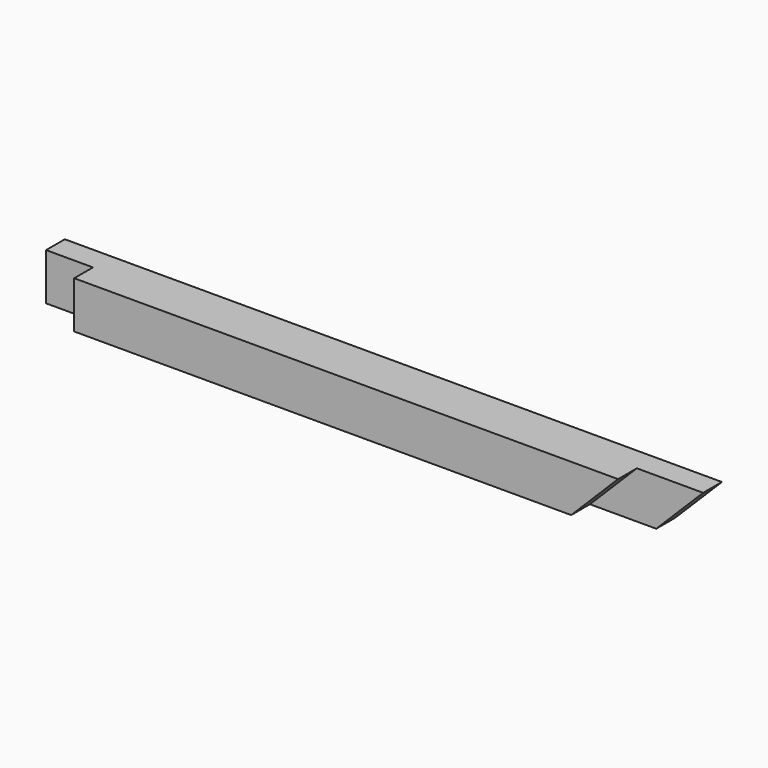
from build123d import *

# Parameters (mm, degrees)
F1_DEPTH = 50
F3_DEPTH = 25
F4_DEPTH = 25
F5_W     = 50
F5_H     = 50
F6_DEPTH = 25


with BuildPart() as f1:
    # F0 (on Front) → F1 (new body)
    with BuildSketch(Plane.XZ):
        Polygon((874.097177, 74.70942), (874.097177, 24.70942), (1524.597177, 24.70942), (1574.597177, 74.70942), align=None)
    extrude(amount=F1_DEPTH)

    # F2 (on face) → F3 (cut)
    with BuildSketch(Plane.XZ.offset(50)):
        Polygon((1524.597177, 24.70942), (1574.597177, 74.70942), (1503.886499, 74.70942), (1453.886499, 24.70942), align=None)
    extrude(amount=-F3_DEPTH, mode=Mode.SUBTRACT)

    # F2 (on face) → F4 (cut)
    with BuildSketch(Plane.XZ.offset(50)):
        Polygon((1524.597177, 24.70942), (1574.597177, 74.70942), (1503.886499, 74.70942), (1453.886499, 24.70942), align=None)
    extrude(amount=-F4_DEPTH, mode=Mode.SUBTRACT)

    # F5 (on face) → F6 (cut)
    with BuildSketch(Plane.XZ.offset(50)):
        with Locations((899.097177, 49.70942)):
            Rectangle(F5_W, F5_H)
    extrude(amount=-F6_DEPTH, mode=Mode.SUBTRACT)


solid = f1.part
